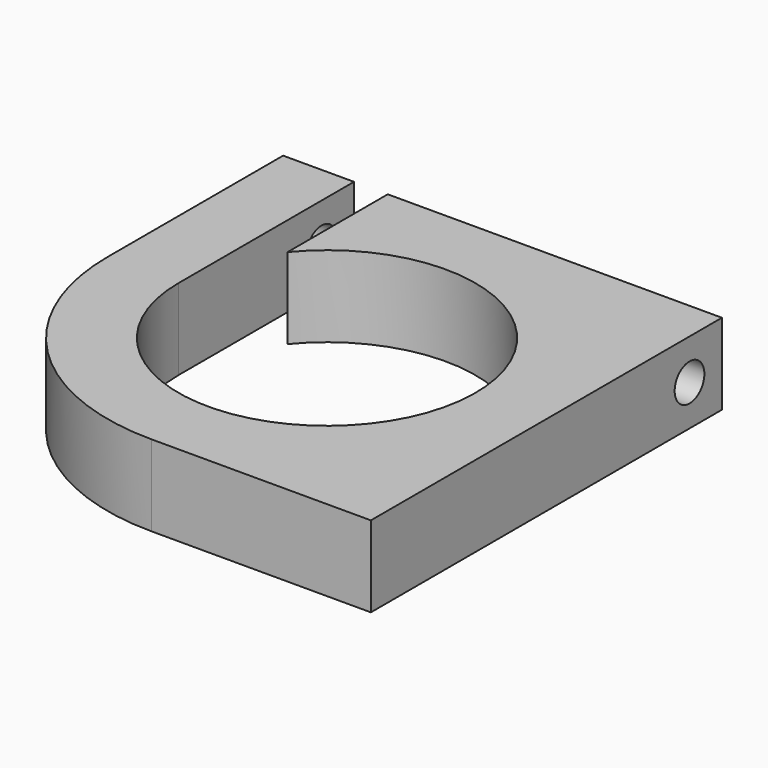
from build123d import *

# Parameters (mm, degrees)
F1_DEPTH       = 12
F3_D           = 5.5
F3_CSINK_D     = 12
F3_CSINK_ANGLE = 90


with BuildPart() as f1:
    # F0 (on Top) → F1 (new body)
    with BuildSketch(Plane.XY):
        with BuildLine():
            ThreePointArc((-17, 13.96424), (20.712315, -7.416198), (-22, 0))
            Line((-22, 0), (-22, 32.5))
            Line((-22, 32.5), (-32.5, 32.5))
            Line((-32.5, 32.5), (-32.5, 0))
            ThreePointArc((-32.5, 0), (-22.98097, -22.98097), (0, -32.5))
            Line((0, -32.5), (32.5, -32.5))
            Line((32.5, -32.5), (32.5, 32.5))
            Line((32.5, 32.5), (0, 32.5))
            Line((0, 32.5), (-17, 32.5))
            Line((-17, 32.5), (-17, 13.96424))
        make_face()
    extrude(amount=F1_DEPTH)

    # F3 (through all)
    with Locations(Plane(origin=(-32.5, 0, 0), x_dir=(0, -1, 0), z_dir=(-1, 0, 0))):
        with Locations((-26.5, 6)):
            CounterSinkHole(F3_D / 2, F3_CSINK_D / 2, counter_sink_angle=F3_CSINK_ANGLE)


solid = f1.part
